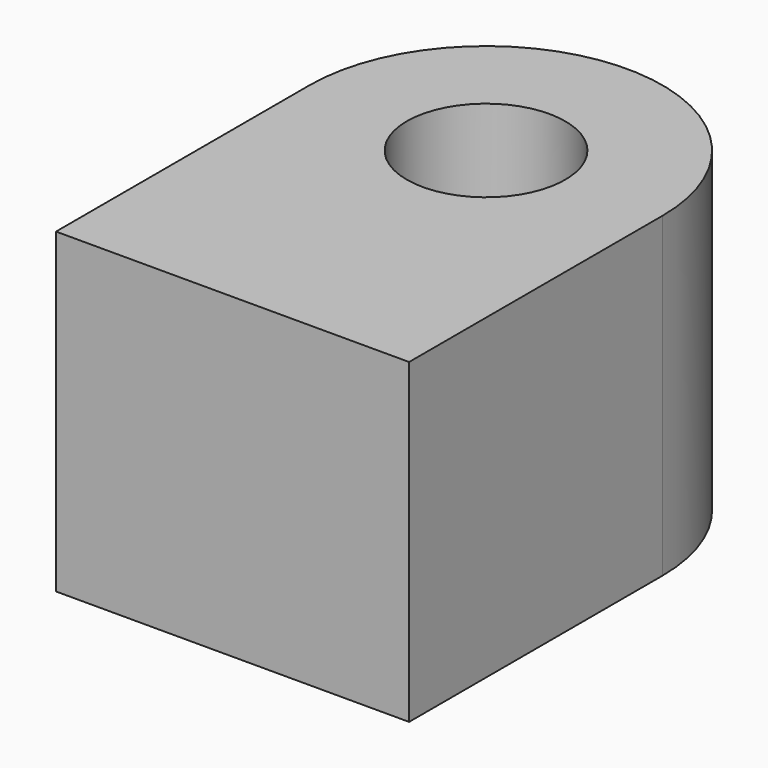
from build123d import *

# Parameters (mm, degrees)
F1_DEPTH = 25.4


with BuildPart() as f1:
    # F0 (on Top) → F1 (new body)
    with BuildSketch(Plane.XY):
        with BuildLine():
            Line((0, 25.4), (0, 0))
            Line((0, 0), (28.306466, 0))
            Line((28.306466, 0), (28.306466, 25.4))
            Line((28.306466, 25.4), (20.503233, 25.4))
            ThreePointArc((20.503233, 25.4), (14.153233, 19.05), (7.803233, 25.4))
            Line((7.803233, 25.4), (0, 25.4))
        make_face()
        with BuildLine():
            ThreePointArc((28.306466, 25.4), (14.153233, 39.553233), (0, 25.4))
            Line((0, 25.4), (7.803233, 25.4))
            ThreePointArc((7.803233, 25.4), (14.153233, 31.75), (20.503233, 25.4))
            Line((20.503233, 25.4), (28.306466, 25.4))
        make_face()
    extrude(amount=F1_DEPTH)


solid = f1.part
